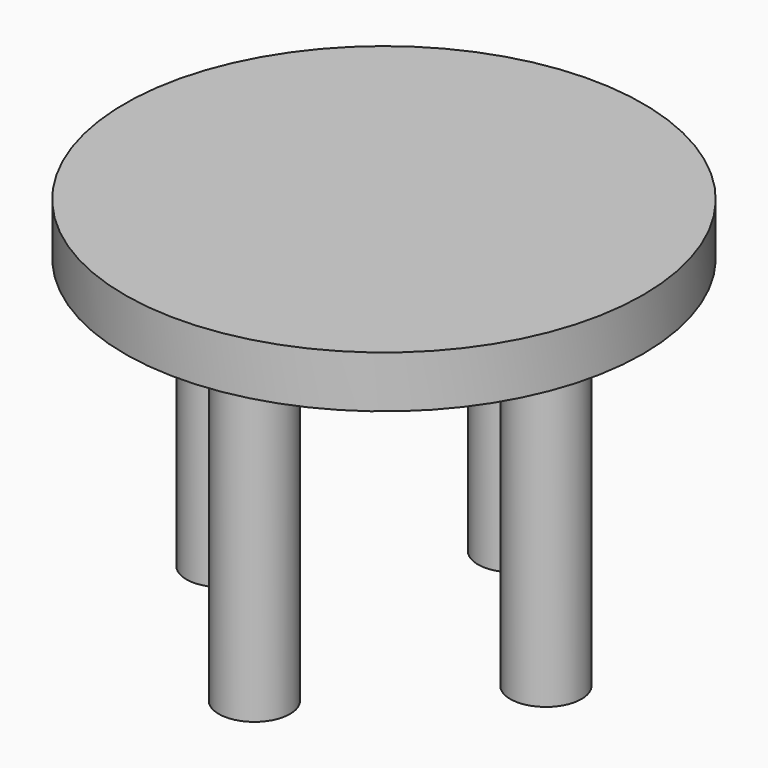
from build123d import *

# Parameters (mm, degrees)
SKETCH_R     = 40
PAD_DEPTH    = 8
SKETCH001_R  = 5.5
PAD001_DEPTH = 50


with BuildPart() as part:
    # Sketch → Pad (new body)
    with BuildSketch(Plane.XY):
        Circle(SKETCH_R)
    extrude(amount=PAD_DEPTH)

    # Sketch001 → Pad001 (new body)
    with BuildSketch(Plane(origin=(0, 0, 0), x_dir=(1, 0, 0), z_dir=(0, 0, -1))):
        with Locations((0, 25)):
            Circle(SKETCH001_R)
        with Locations((-25, 0)):
            Circle(SKETCH001_R)
        with Locations((0, -25)):
            Circle(SKETCH001_R)
        with Locations((25, 0)):
            Circle(SKETCH001_R)
    extrude(amount=PAD001_DEPTH)


solid = part.part
